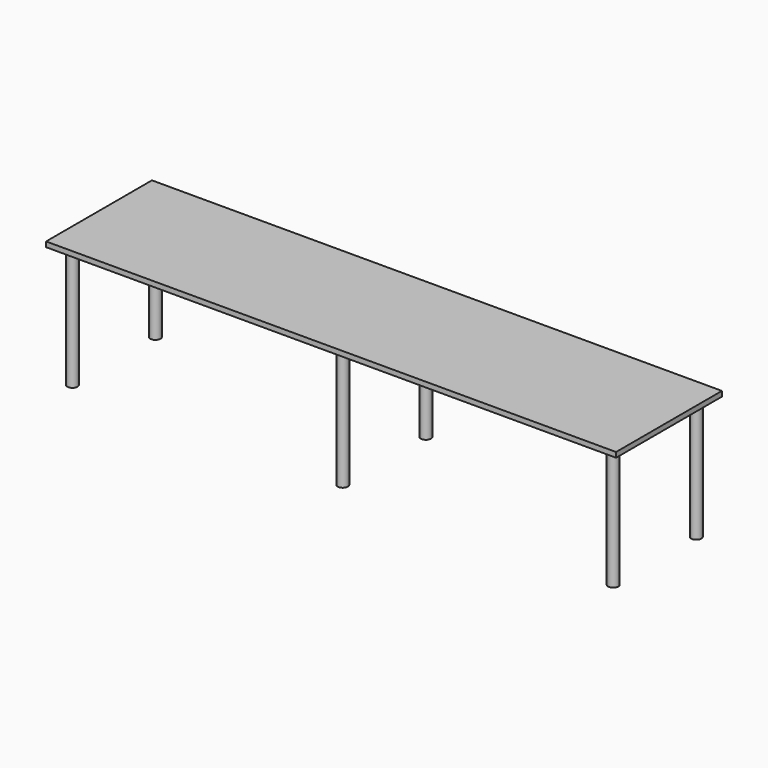
from build123d import *

# Parameters (mm, degrees)
F0_W     = 2800
F0_H     = 25
F1_DEPTH = 650
F2_R     = 25
F3_DEPTH = 600


with BuildPart() as f1:
    # F0 (on Front) → F1 (new body)
    with BuildSketch(Plane.XZ):
        with Locations((1400, -12.5)):
            Rectangle(F0_W, F0_H)
    extrude(amount=F1_DEPTH)

    # F2 (on face) → F3 (join)
    with BuildSketch(Plane(origin=(0, 0, -25), x_dir=(1, 0, 0), z_dir=(0, 0, -1))):
        with Locations((73.16, 70)):
            Circle(F2_R)
        with Locations((73.16, 580)):
            Circle(F2_R)
        with Locations((1401.58, 70)):
            Circle(F2_R)
        with Locations((1401.58, 580)):
            Circle(F2_R)
        with Locations((2730, 70)):
            Circle(F2_R)
        with Locations((2730, 580)):
            Circle(F2_R)
    extrude(amount=F3_DEPTH)


solid = f1.part
